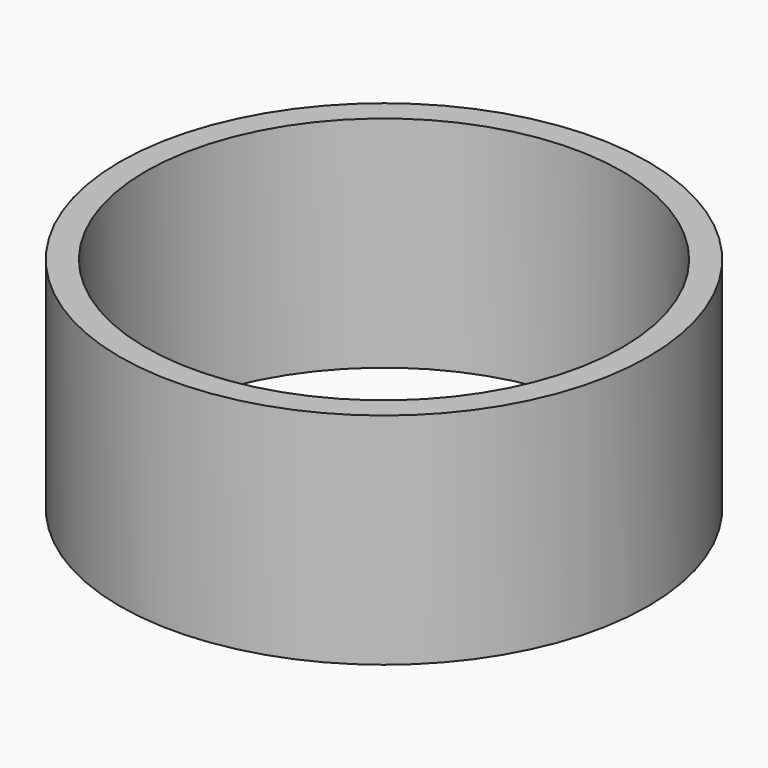
from build123d import *

# Parameters (mm, degrees)
F0_R     = 25.988651
F3_DEPTH = 21.59
F2_R     = 23.448651
F4_DEPTH = 21.591


with BuildPart() as f3:
    # F0 (on Top) → F3 (new body)
    with BuildSketch(Plane.XY):
        Circle(F0_R)
    extrude(amount=F3_DEPTH)

    # F2 (on face) → F4 (cut, through all)
    with BuildSketch(Plane.XY):
        Circle(F2_R)
    extrude(amount=F4_DEPTH, mode=Mode.SUBTRACT)


solid = f3.part
